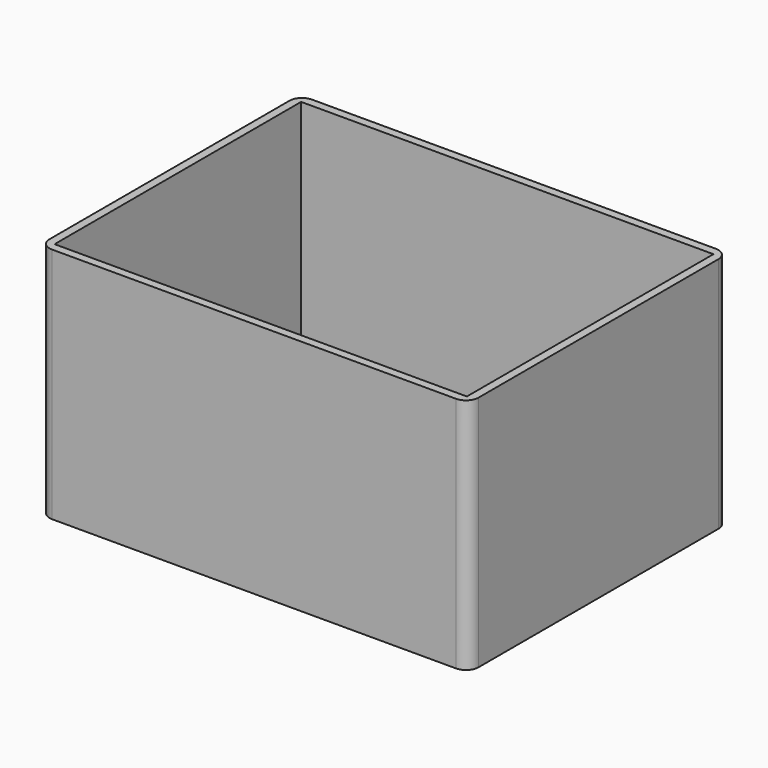
from build123d import *

# Parameters (mm, degrees)
F0_W     = 78
F0_H     = 57
F1_DEPTH = 103
F2_T     = -2
F3_W     = 15.3
F3_H     = 30
F4_DEPTH = 2
F5_W     = 6.151636
F5_H     = 16.015052
F6_DEPTH = 1
F7_R     = 3
F8_R     = 2.19301
F9_DEPTH = 25


with BuildPart() as f1:
    # F0 (on Right) → F1 (new body)
    with BuildSketch(Plane.YZ):
        with Locations((2.376287, -1.899485)):
            Rectangle(F0_W, F0_H)
    extrude(amount=F1_DEPTH)

    # F2
    f2_openings = [f1.faces().sort_by_distance(p)[0] for p in [
        (51.5, 2.376287, 26.600515),
    ]]
    offset(amount=F2_T, openings=f2_openings)

    # F3 (on face) → F4 (cut)
    with BuildSketch(Plane.XY.offset(-28.399485)):
        with Locations((9.65, -2.759746)):
            Rectangle(F3_W, F3_H)
    extrude(amount=-F4_DEPTH, mode=Mode.SUBTRACT)

    # F5 (on face) → F6 (cut)
    with BuildSketch(Plane.XY.offset(-28.399485)):
        with Locations((20.375818, -2.137607)):
            Rectangle(F5_W, F5_H)
    extrude(amount=-F6_DEPTH, mode=Mode.SUBTRACT)

    # F7
    f7_edges = [f1.edges().sort_by_distance(p)[0] for p in [
        (0, -36.623713, -1.899485),
        (0, 41.376287, -1.899485),
        (103, 41.376287, -1.899485),
        (103, -36.623713, -1.899485),
    ]]
    fillet(f7_edges, radius=F7_R)

    # F8 (on face) → F9 (cut)
    with BuildSketch(Plane(origin=(0, 0, -30.399485), x_dir=(1, 0, 0), z_dir=(0, 0, -1))):
        with Locations((10, -26.376287)):
            Circle(F8_R)
    extrude(amount=-F9_DEPTH, mode=Mode.SUBTRACT)


solid = f1.part
